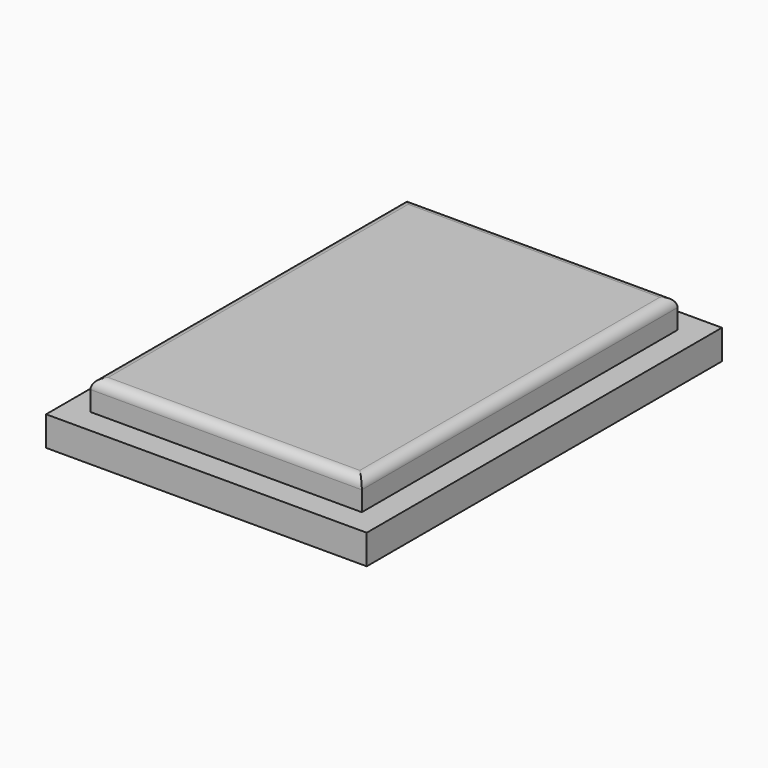
from build123d import *

# Parameters (mm, degrees)
F0_W     = 6.5
F0_H     = 9
F2_DEPTH = 0.6
F1_W     = 5.5
F1_H     = 8
F3_DEPTH = 0.6
F4_R     = 0.2


with BuildPart() as f2:
    # F0 (on Top) → F2 (new body)
    with BuildSketch(Plane.XY):
        with Locations((3.25, 4.5)):
            Rectangle(F0_W, F0_H)
    extrude(amount=-F2_DEPTH)

    # F1 (on face) → F3 (join)
    with BuildSketch(Plane.XY):
        with Locations((3.25, 4.5)):
            Rectangle(F1_W, F1_H)
    extrude(amount=F3_DEPTH)

    # F4
    f4_edges = [f2.edges().sort_by_distance(p)[0] for p in [
        (0.5, 4.5, 0.6),
        (3.25, 0.5, 0.6),
        (6, 4.5, 0.6),
        (3.25, 8.5, 0.6),
    ]]
    fillet(f4_edges, radius=F4_R)


solid = f2.part
